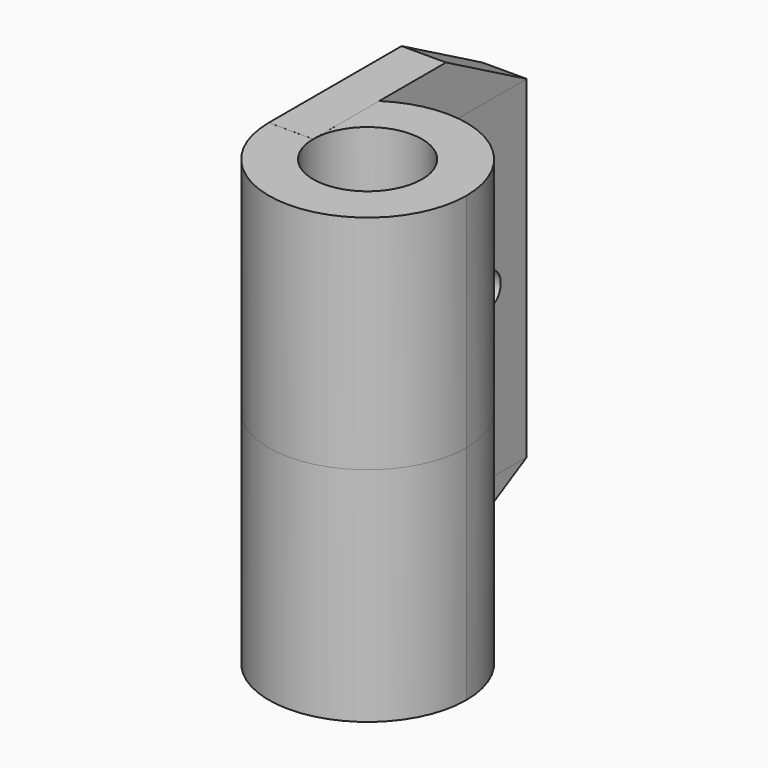
from build123d import *

# Parameters (mm, degrees)
F1_DEPTH = 7.5
F2_DEPTH = 10
F4_D     = 1.6
F4_DEPTH = 20
F4_TIP   = 0.4806884952
F6_DEPTH = 2


with BuildPart() as f1:
    # F0 (on Top) → F1 (new body, symmetric)
    with BuildSketch(Plane.XY):
        with BuildLine():
            ThreePointArc((-4.45, 0), (-3.9182373637, 2.109482392), (-2.4500377699, 3.714810214))
            Line((-2.4500377699, 3.714810214), (-2.4501220086, 11.9999999994))
            Line((-2.4501220086, 11.9999999994), (-4.45, 12.0220911662))
            Line((-4.45, 12.0220911662), (-4.45, 0))
        make_face()
    extrude(amount=F1_DEPTH, both=True)

    # F0 (on Top) → F2 (join, symmetric)
    with BuildSketch(Plane.XY):
        with BuildLine():
            ThreePointArc((4.45, 0), (2.109482392, 3.9182373637), (-2.4500377699, 3.714810214))
            ThreePointArc((-2.4500377699, 3.714810214), (-3.9182373637, 2.109482392), (-4.45, 0))
            ThreePointArc((-4.45, 0), (0, -4.45), (4.45, 0))
        make_face()
        with BuildLine():
            ThreePointArc((-2.45, 0), (0, 2.45), (2.45, 0))
            ThreePointArc((2.45, 0), (0, -2.45), (-2.45, 0))
        make_face(mode=Mode.SUBTRACT)
    extrude(amount=F2_DEPTH, both=True)

    # F4
    with Locations(Plane(origin=(-2.4499999997, -2.49101e-05, 0), x_dir=(-1.01674e-05, 0.9999999999, 0), z_dir=(0.9999999999, 1.01674e-05, 0))):
        with Locations((9.7579266876, 0)):
            Hole(F4_D / 2, depth=F4_DEPTH)
            with Locations((0, 0, -(F4_DEPTH + F4_TIP / 2))):  # 118° drill point
                Cone(0, F4_D / 2, F4_TIP, mode=Mode.SUBTRACT)


with BuildPart() as f6:
    # F5 (on face) → F6 (new body)
    with BuildSketch(Plane(origin=(-4.45, 0, 0), x_dir=(0, -1, 0), z_dir=(-1, 0, 0))):
        Polygon((0, -9.9865663797), (0, -7.5), (-12.0220911662, -7.5), (-7.4750312432, -9.9994977936), (0, -10.0010894239), align=None)
    extrude(amount=-F6_DEPTH)


with BuildPart() as f6b:
    # F5 (on face) → F6, piece 2 (new body)
    with BuildSketch(Plane(origin=(-4.45, 0, 0), x_dir=(0, -1, 0), z_dir=(-1, 0, 0))):
        Polygon((0, 7.5), (0, 9.9865663797), (0, 10.0010894239), (-7.4750312432, 9.9994977936), (-12.0220911662, 7.5), align=None)
    extrude(amount=-F6_DEPTH)


solid = Compound([f1.part, f6.part, f6b.part])
